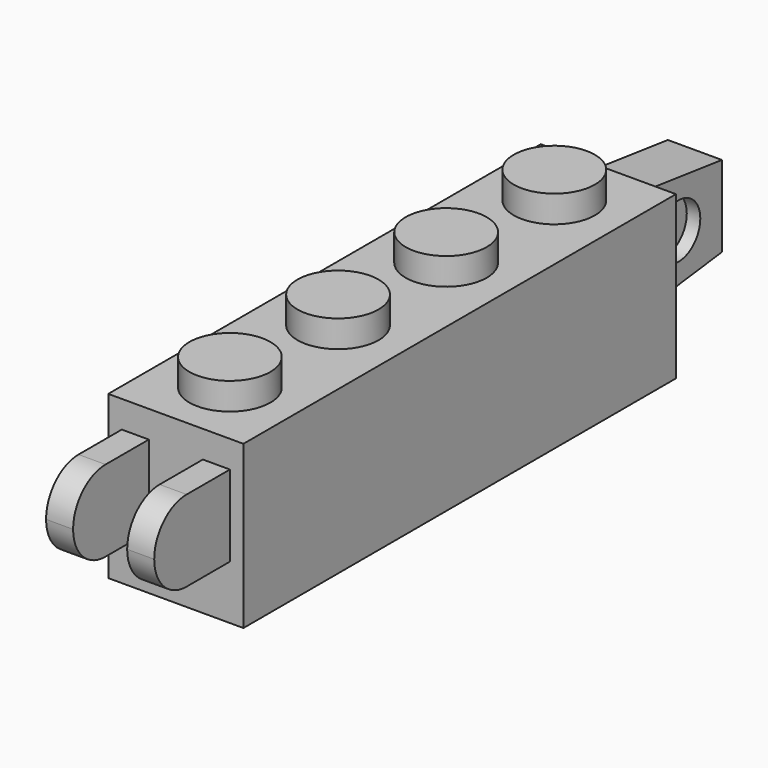
from build123d import *

# Parameters (mm, degrees)
F0_W      = 7.9375
F0_H      = 31.75
F0_R      = 2.38125
F1_DEPTH  = 9.525
F2_DEPTH  = 11.1125
F3_W      = 3.175
F3_H      = 2.38125
F4_DEPTH  = 3.175
F5_W      = 1.5875
F5_H      = 6.35
F6_DEPTH  = 6.35
F7_DEPTH  = 1.5875
F8_R      = 1.5875
F9_DEPTH  = 0.79375
F10_R     = 1.5875
F11_DEPTH = 0.79375


with BuildPart() as f1:
    # F0 (on Top) → F1 (new body)
    with BuildSketch(Plane.XY):
        Rectangle(F0_W, F0_H)
        with Locations((0, -11.90625)):
            Circle(F0_R, mode=Mode.SUBTRACT)
        with Locations((0, -3.96875)):
            Circle(F0_R, mode=Mode.SUBTRACT)
        with Locations((0, 3.96875)):
            Circle(F0_R, mode=Mode.SUBTRACT)
        with Locations((0, 11.90625)):
            Circle(F0_R, mode=Mode.SUBTRACT)
    extrude(amount=F1_DEPTH)

    # F0 (on Top) → F2 (join)
    with BuildSketch(Plane.XY):
        with Locations((0, 11.90625)):
            Circle(F0_R)
        with Locations((0, -11.90625)):
            Circle(F0_R)
        with Locations((0, 3.96875)):
            Circle(F0_R)
        with Locations((0, -3.96875)):
            Circle(F0_R)
    extrude(amount=F2_DEPTH)

    # F3 (on Right) → F4 (join, symmetric)
    with BuildSketch(Plane.YZ):
        with Locations((-17.4625, 6.746875)):
            Rectangle(F3_W, F3_H)
        with Locations((-17.4625, 4.365625)):
            Rectangle(F3_W, F3_H)
        with BuildLine():
            Line((-21.43125, 5.55625), (-19.05, 5.55625))
            Line((-19.05, 5.55625), (-19.05, 7.9375))
            ThreePointArc((-19.05, 7.9375), (-20.733798, 7.240048), (-21.43125, 5.55625))
        make_face()
        with BuildLine():
            Line((-19.05, 3.175), (-19.05, 5.55625))
            Line((-19.05, 5.55625), (-21.43125, 5.55625))
            ThreePointArc((-21.43125, 5.55625), (-20.733798, 3.872452), (-19.05, 3.175))
        make_face()
    extrude(amount=F4_DEPTH, both=True)

    # F5 (on face) → F6 (cut)
    with BuildSketch(Plane.XY.offset(7.9375)):
        with Locations((0.79375, -19.05)):
            Rectangle(F5_W, F5_H)
        with Locations((-0.79375, -19.05)):
            Rectangle(F5_W, F5_H)
    extrude(amount=-F6_DEPTH, mode=Mode.SUBTRACT)

    # F3 (on Right) → F7 (join, symmetric)
    with BuildSketch(Plane.YZ):
        Polygon((15.875, 8.73125), (15.875, 5.55625), (22.225, 5.55625), (22.225, 7.9375), align=None)
        Polygon((22.225, 5.55625), (15.875, 5.55625), (15.875, 2.38125), (22.225, 3.175), align=None)
    extrude(amount=F7_DEPTH, both=True)

    # F8 (on face) → F9 (cut)
    with BuildSketch(Plane.YZ.offset(1.5875)):
        with Locations((19.05, 5.55625)):
            Circle(F8_R)
    extrude(amount=-F9_DEPTH, mode=Mode.SUBTRACT)

    # F10 (on face) → F11 (cut)
    with BuildSketch(Plane(origin=(-1.5875, 0, 0), x_dir=(0, -1, 0), z_dir=(-1, 0, 0))):
        with Locations((-19.05, 5.55625)):
            Circle(F10_R)
    extrude(amount=-F11_DEPTH, mode=Mode.SUBTRACT)


solid = f1.part
